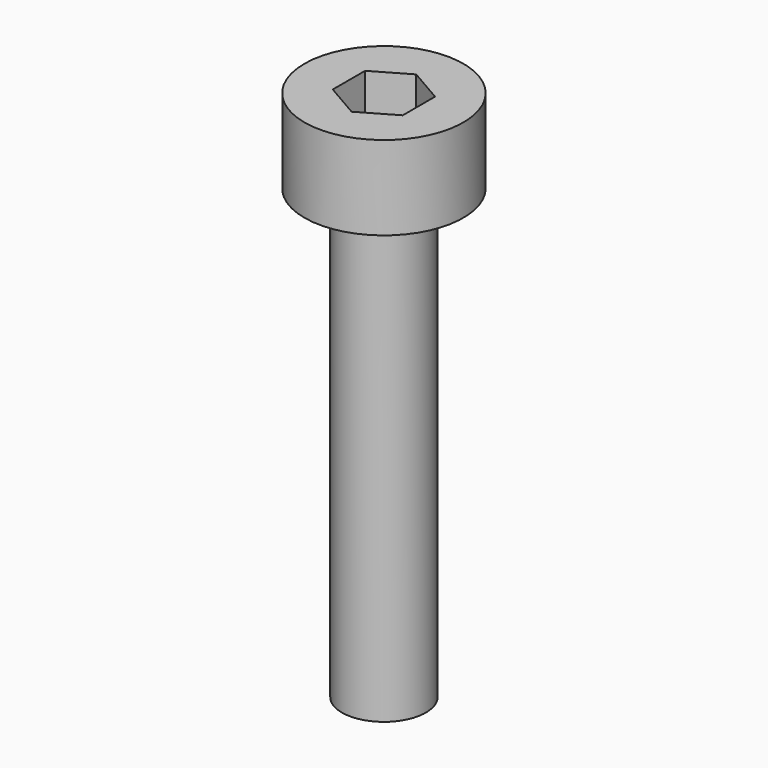
from build123d import *

# Parameters (mm, degrees)
CYLINDER026_R                      = 1.5
CYLINDER026_DEPTH                  = 19
CYLINDER025_R                      = 2.84
CYLINDER025_DEPTH                  = 3
FUSION001018017023_PLACEMENT_ANGLE = 180
POCKET002018004005005017_DEPTH     = 2


with BuildPart() as cylinder026:
    # Cylinder026 → Cylinder026 (new body)
    with BuildSketch(Plane.XY):
        Circle(CYLINDER026_R)
    extrude(amount=CYLINDER026_DEPTH)


with BuildPart() as zylinderkopfschraube_m3x16_din912:
    # Cylinder025 → Cylinder025 (new body)
    with BuildSketch(Plane.XY):
        Circle(CYLINDER025_R)
    extrude(amount=CYLINDER025_DEPTH)

    # Fusion001018017023: union Cylinder026
    add(cylinder026.part)


with BuildPart() as zylinderkopfschraube_m3x16_din912_1:
    # Fusion001018017023 placement: moved
    add(zylinderkopfschraube_m3x16_din912.part.rotate(Axis((0, 0, 0), (0, 1, 0)), FUSION001018017023_PLACEMENT_ANGLE))

    # Sketch025 → Pocket002018004005005017 (cut)
    with BuildSketch(Plane(origin=(0, 0, 0), x_dir=(-1, 0, 0), z_dir=(0, 0, 1))):
        Polygon((1.25, -0.721688), (1.25, 0.721688), (0, 1.443376), (-1.25, 0.721688), (-1.25, -0.721688), (0, -1.443376), align=None)
    extrude(amount=-POCKET002018004005005017_DEPTH, mode=Mode.SUBTRACT)


solid = zylinderkopfschraube_m3x16_din912_1.part
